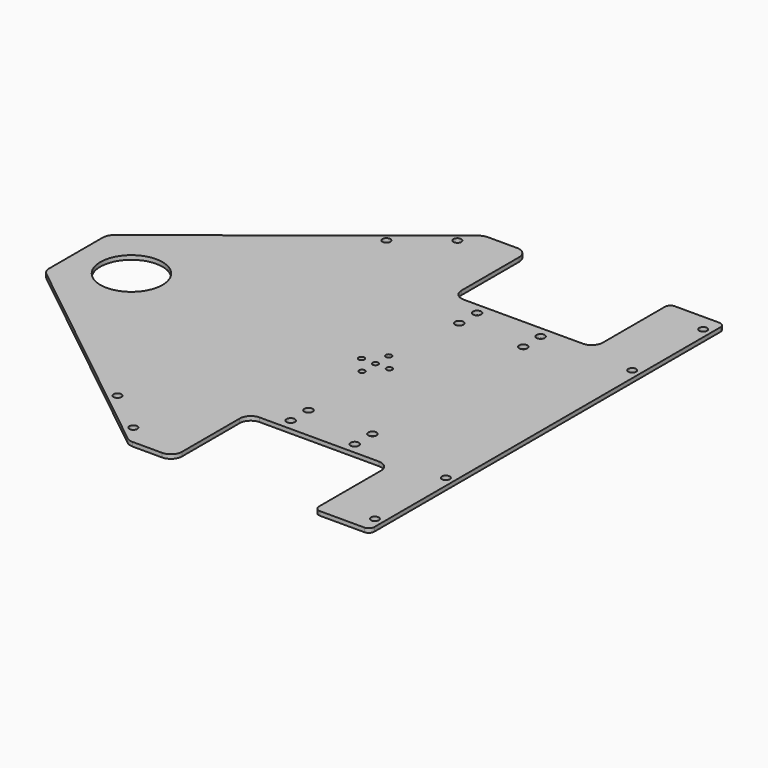
from build123d import *

# Parameters (mm, degrees)
SKETCH_R        = 2.3622
SKETCH_R_2      = 17.78
PAD_DEPTH       = 2.3622
FILLET_R        = 6.35
FILLET001_R     = 6.35
FILLET002_R     = 6.35
FILLET003_R     = 6.35
FILLET004_R     = 6.35
FILLET005_R     = 3.175
FILLET006_R     = 3.175
FILLET007_R     = 6.35
FILLET008_R     = 6.35
FILLET009_R     = 6.35
FILLET010_R     = 6.35
FILLET011_R     = 6.35
FILLET012_R     = 3.175
FILLET013_R     = 3.175
SKETCH001_R     = 1.651
POCKET_DEPTH    = 2.3632
SKETCH002_R     = 2.2479
POCKET001_DEPTH = 2.3632
SKETCH003_R     = 2.2479
POCKET002_DEPTH = 5.0038
SKETCH004_R     = 2.2479
POCKET003_DEPTH = 0.001


with BuildPart() as part:
    # Sketch (on DatumPlane) → Pad (new body)
    with BuildSketch(Plane.XY.offset(43.6758)):
        Polygon((40.4368, 73.025), (-40.4368, 73.025), (-40.4368, 127), (-65.8368, 127), (-197.6882, 22.225), (-197.6882, -22.225), (-65.8368, -127), (-40.4368, -127), (-40.4368, -73.025), (40.4368, -73.025), (40.4368, -127), (72.1868, -127), (72.1868, 127), (40.4368, 127), align=None)
        with Locations((-21.3868, 66.675)):
            Circle(SKETCH_R, mode=Mode.SUBTRACT)
        with Locations((-21.3868, 53.975)):
            Circle(SKETCH_R, mode=Mode.SUBTRACT)
        with Locations((-21.3868, -53.975)):
            Circle(SKETCH_R, mode=Mode.SUBTRACT)
        with Locations((-21.3868, -66.675)):
            Circle(SKETCH_R, mode=Mode.SUBTRACT)
        with Locations((15.0368, 66.675)):
            Circle(SKETCH_R, mode=Mode.SUBTRACT)
        with Locations((15.24, 53.975)):
            Circle(SKETCH_R, mode=Mode.SUBTRACT)
        with Locations((15.24, -53.975)):
            Circle(SKETCH_R, mode=Mode.SUBTRACT)
        with Locations((15.24, -66.675)):
            Circle(SKETCH_R, mode=Mode.SUBTRACT)
        with Locations((-165.9382, 0)):
            Circle(SKETCH_R_2, mode=Mode.SUBTRACT)
    extrude(amount=PAD_DEPTH)

    # Fillet
    fillet_edges = [part.edges().sort_by_distance(p)[0] for p in [
        (-197.6882, -22.225, 44.8569),
    ]]
    fillet(fillet_edges, radius=FILLET_R)

    # Fillet001
    fillet001_edges = [part.edges().sort_by_distance(p)[0] for p in [
        (-65.8368, -127, 44.8569),
    ]]
    fillet(fillet001_edges, radius=FILLET001_R)

    # Fillet002
    fillet002_edges = [part.edges().sort_by_distance(p)[0] for p in [
        (-40.4368, -127, 44.8569),
    ]]
    fillet(fillet002_edges, radius=FILLET002_R)

    # Fillet003
    fillet003_edges = [part.edges().sort_by_distance(p)[0] for p in [
        (-40.4368, -73.025, 44.8569),
    ]]
    fillet(fillet003_edges, radius=FILLET003_R)

    # Fillet004
    fillet004_edges = [part.edges().sort_by_distance(p)[0] for p in [
        (40.4368, -73.025, 44.8569),
    ]]
    fillet(fillet004_edges, radius=FILLET004_R)

    # Fillet005
    fillet005_edges = [part.edges().sort_by_distance(p)[0] for p in [
        (40.4368, -127, 44.8569),
    ]]
    fillet(fillet005_edges, radius=FILLET005_R)

    # Fillet006
    fillet006_edges = [part.edges().sort_by_distance(p)[0] for p in [
        (72.1868, -127, 44.8569),
    ]]
    fillet(fillet006_edges, radius=FILLET006_R)

    # Fillet007
    fillet007_edges = [part.edges().sort_by_distance(p)[0] for p in [
        (-197.6882, 22.225, 44.8569),
    ]]
    fillet(fillet007_edges, radius=FILLET007_R)

    # Fillet008
    fillet008_edges = [part.edges().sort_by_distance(p)[0] for p in [
        (-65.8368, 127, 44.8569),
    ]]
    fillet(fillet008_edges, radius=FILLET008_R)

    # Fillet009
    fillet009_edges = [part.edges().sort_by_distance(p)[0] for p in [
        (-40.4368, 127, 44.8569),
    ]]
    fillet(fillet009_edges, radius=FILLET009_R)

    # Fillet010
    fillet010_edges = [part.edges().sort_by_distance(p)[0] for p in [
        (40.4368, 73.025, 44.8569),
    ]]
    fillet(fillet010_edges, radius=FILLET010_R)

    # Fillet011
    fillet011_edges = [part.edges().sort_by_distance(p)[0] for p in [
        (-40.4368, 73.025, 44.8569),
    ]]
    fillet(fillet011_edges, radius=FILLET011_R)

    # Fillet012
    fillet012_edges = [part.edges().sort_by_distance(p)[0] for p in [
        (40.4368, 127, 44.8569),
    ]]
    fillet(fillet012_edges, radius=FILLET012_R)

    # Fillet013
    fillet013_edges = [part.edges().sort_by_distance(p)[0] for p in [
        (72.1868, 127, 44.8569),
    ]]
    fillet(fillet013_edges, radius=FILLET013_R)

    # Sketch001 (on Face39 of Fillet013) → Pocket (cut, through all)
    with BuildSketch(Plane.XY.offset(46.038)):
        with Locations((-26.2382, 0)):
            Circle(SKETCH001_R)
        with Locations((-34.2011, 0)):
            Circle(SKETCH001_R)
        with Locations((-26.2382, 9.525)):
            Circle(SKETCH001_R)
        with Locations((-18.2753, 0)):
            Circle(SKETCH001_R)
        with Locations((-26.2382, -9.525)):
            Circle(SKETCH001_R)
    extrude(amount=-POCKET_DEPTH, mode=Mode.SUBTRACT)

    # Sketch002 (on Face44 of Pocket) → Pocket001 (cut, through all)
    with BuildSketch(Plane.XY.offset(46.038)):
        with Locations((-96.923253, -96.214243)):
            Circle(SKETCH002_R)
        with Locations((-72.065864, -115.967033)):
            Circle(SKETCH002_R)
        with Locations((-72.065864, 115.967033)):
            Circle(SKETCH002_R)
        with Locations((-96.923253, 96.214243)):
            Circle(SKETCH002_R)
    extrude(amount=-POCKET001_DEPTH, mode=Mode.SUBTRACT)

    # Sketch003 (on Face48 of Pocket001) → Pocket002 (cut)
    with BuildSketch(Plane.XY.offset(46.038)):
        with Locations((67.4243, -117.475)):
            Circle(SKETCH003_R)
        with Locations((67.4243, -66.675)):
            Circle(SKETCH003_R)
        with Locations((67.4243, 117.475)):
            Circle(SKETCH003_R)
        with Locations((67.4243, 66.675)):
            Circle(SKETCH003_R)
    extrude(amount=-POCKET002_DEPTH, mode=Mode.SUBTRACT)

    # Sketch004 → Pocket003 (cut, through all)
    with BuildSketch(Plane.XY):
        with Locations((-177.3809, 19.819338)):
            Circle(SKETCH004_R)
        with Locations((-177.3809, -19.819338)):
            Circle(SKETCH004_R)
        with Locations((-143.0528, 0)):
            Circle(SKETCH004_R)
    extrude(amount=-POCKET003_DEPTH, mode=Mode.SUBTRACT)


solid = part.part
